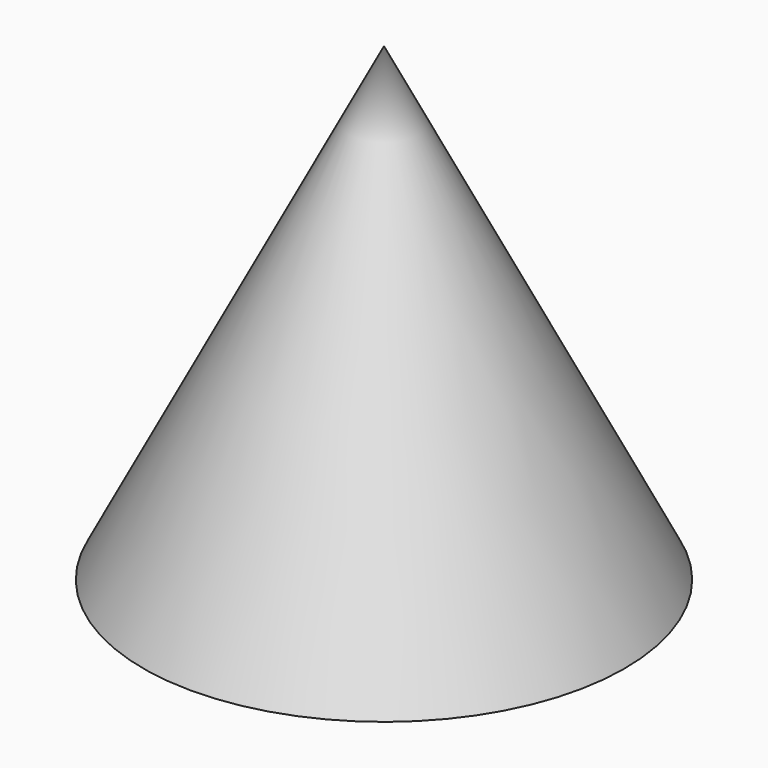
from build123d import *

# Parameters (mm, degrees)
F1_ANGLE = -359.301879


with BuildPart() as f1:
    # F0 (on Front) → F1 (revolve)
    with BuildSketch(Plane.XZ):
        Polygon((0, -47.586385), (0, 65.147445), (-58.29788, -48.6109), align=None)
    revolve(axis=Axis((0, 0, 8.78053), (0, 0, -1)), revolution_arc=F1_ANGLE)


solid = f1.part
